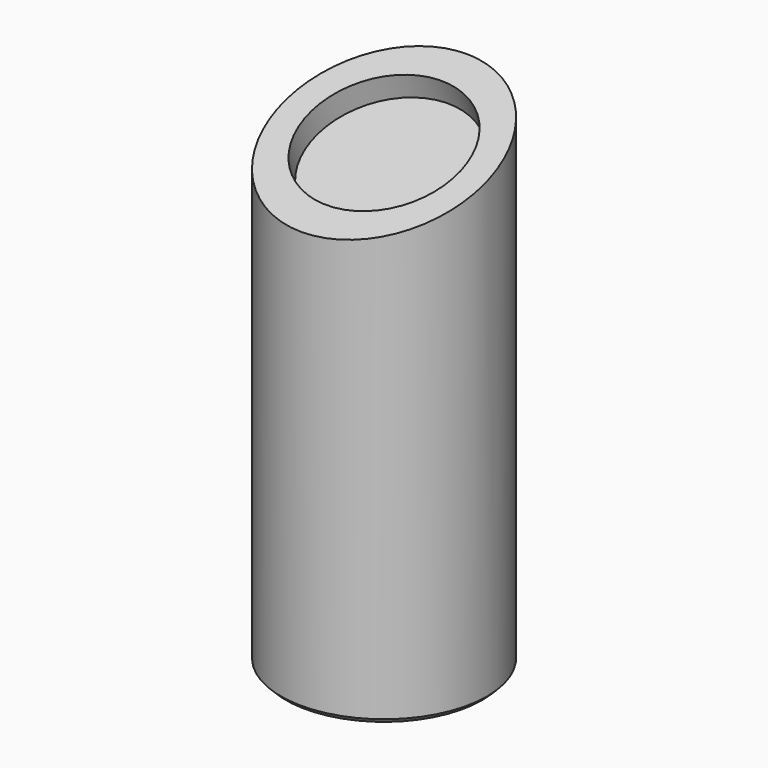
from build123d import *

# Parameters (mm, degrees)
F0_R          = 12.5
F1_DEPTH      = 60
F3_DEPTH      = 12.501
F3_DEPTH_BACK = 12.501
F4_R          = 9.25
F5_DEPTH      = 3
F6_SIZE       = 0.6


with BuildPart() as f1:
    # F0 (on Top) → F1 (new body)
    with BuildSketch(Plane.XY):
        Circle(F0_R)
    extrude(amount=F1_DEPTH)

    # F2 (on Right) → F3 (cut, two sides)
    with BuildSketch(Plane.YZ) as f3_sk:
        Polygon((12.5, 60), (-12.5, 60), (-12.5, 51.156578049), align=None)
    extrude(amount=-F3_DEPTH, mode=Mode.SUBTRACT)
    extrude(f3_sk.sketch, amount=F3_DEPTH_BACK, mode=Mode.SUBTRACT)

    # F4 (on face) → F5 (cut)
    with BuildSketch(Plane(origin=(0, -17.4736202127, 49.3972251624), x_dir=(1, 0, 0), z_dir=(0, -0.3334870921, 0.9427546655))):
        with Locations((0, 18.5346419929)):
            Circle(F4_R)
    extrude(amount=-F5_DEPTH, mode=Mode.SUBTRACT)

    # F6
    f6_edges = [f1.edges().sort_by_distance(p)[0] for p in [
        (-12.5, 0, 0),
    ]]
    chamfer(f6_edges, length=F6_SIZE)


solid = f1.part
